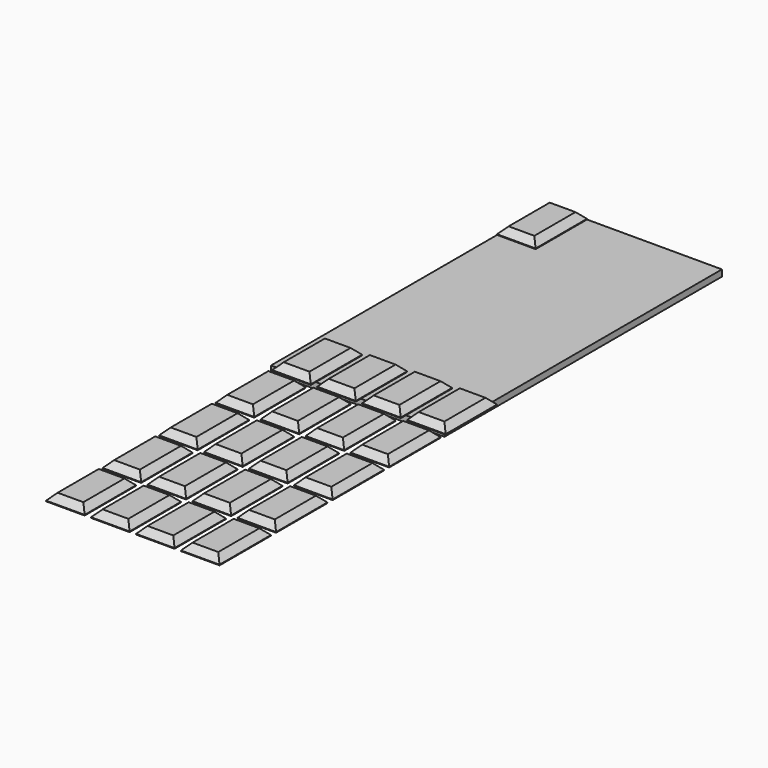
from build123d import *

# Parameters (mm, degrees)
BOX_W         = 6
BOX_H         = 10
BOX_DEPTH     = 1.1
CHAMFER_SIZE  = 1
ARRAY_X_COUNT = 4
ARRAY_X_PITCH = 7
ARRAY_Y_COUNT = 5
ARRAY_Y_PITCH = 11
BOX001_W      = 27
BOX001_H      = 54
BOX001_DEPTH  = 1


with BuildPart() as obj1:
    # Box → Box (new body)
    with BuildSketch(Plane.XY):
        with Locations((3, 5)):
            Rectangle(BOX_W, BOX_H)
    extrude(amount=BOX_DEPTH)

    # Chamfer
    chamfer_edges = [obj1.edges().sort_by_distance(p)[0] for p in [
        (0, 5, 1.1),
        (6, 5, 1.1),
        (3, 0, 1.1),
        (3, 10, 1.1),
    ]]
    chamfer(chamfer_edges, length=CHAMFER_SIZE)


with BuildPart() as array:
    # Array base: copy of obj1à
    add(obj1.part)

    # Array X: Array ×4


with BuildPart() as array_1:
    add(array.part)
    with Locations(*[(i * ARRAY_X_PITCH, 0, 0) for i in range(1, ARRAY_X_COUNT)]):
        add(array.part)

    # Array Y: Array ×5


with BuildPart() as array_2:
    add(array_1.part)
    with Locations(*[(0, -i * ARRAY_Y_PITCH, 0) for i in range(1, ARRAY_Y_COUNT)]):
        add(array_1.part)


with BuildPart() as cub001:
    # Box001 → Box001 (new body)
    with BuildSketch(Plane(origin=(0, -44, -1), x_dir=(1, 0, 0), z_dir=(0, 0, 1))):
        with Locations((13.5, 27)):
            Rectangle(BOX001_W, BOX001_H)
    extrude(amount=BOX001_DEPTH)


with BuildPart() as uni:
    # Fusion base: copy of obj1à
    add(obj1.part)

    # Fusion: union Cub001
    add(cub001.part)


with BuildPart() as uni_1:
    # Fusion placement: moved
    add(uni.part.moved(Location((-1, 45, 0))))


solid = Compound([array_2.part, uni_1.part])
